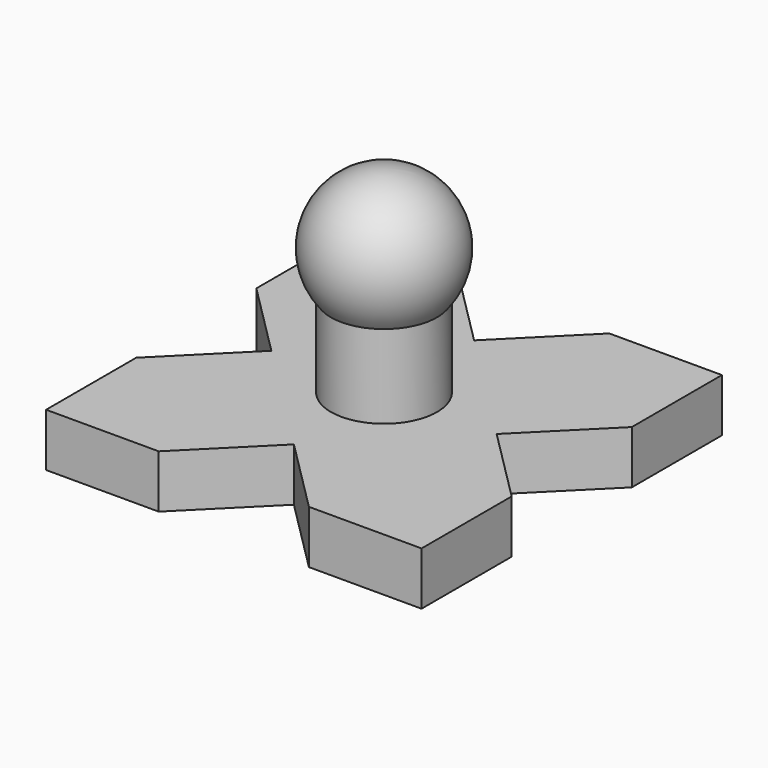
from build123d import *

# Parameters (mm, degrees)
CYLINDER011_R            = 5
CYLINDER011_DEPTH        = 15
PAD_DEPTH                = 5
ARRAY006_COUNT           = 4
CLONE017_PLACEMENT_ANGLE = 45


with BuildPart() as cylinder011:
    # Cylinder011 → Cylinder011 (new body)
    with BuildSketch(Plane.XY):
        Circle(CYLINDER011_R)
    extrude(amount=CYLINDER011_DEPTH)


with BuildPart() as sphere:
    # Sphere → Sphere (revolve)
    with BuildSketch(Plane(origin=(0, 0, 17), x_dir=(1, 0, 0), z_dir=(0, -1, 0))):
        with BuildLine():
            ThreePointArc((0, -6.5), (6.5, 0), (0, 6.5))
            Line((0, 6.5), (0, -6.5))
        make_face()
    revolve(axis=Axis((0, 0, 17), (0, 0, 1)))


with BuildPart() as obj1:
    # Sketch → Pad (new body)
    with BuildSketch(Plane.XY):
        Polygon((0, 7.5), (17.5, 7.5), (25, 0), (17.5, -7.5), (0, -7.5), align=None)
    extrude(amount=PAD_DEPTH)

    # Array006: obj1 ×4 about axis
    array006_axis = Axis((0, 0, 0), (0, 0, 1))


with BuildPart() as obj1_1:
    add(obj1.part)
    for i in range(1, ARRAY006_COUNT):
        add(obj1.part.rotate(array006_axis, i * 360 / ARRAY006_COUNT))

    # Fusion017: union Cylinder011, Sphere
    add(cylinder011.part)
    add(sphere.part)


with BuildPart() as obj1_2:
    # Clone017 placement: moved
    add(obj1_1.part.moved(Location((10, 110, 21.6533))).rotate(Axis((10, 110, 21.6533), (0, 0, 1)), CLONE017_PLACEMENT_ANGLE))


solid = obj1_2.part
